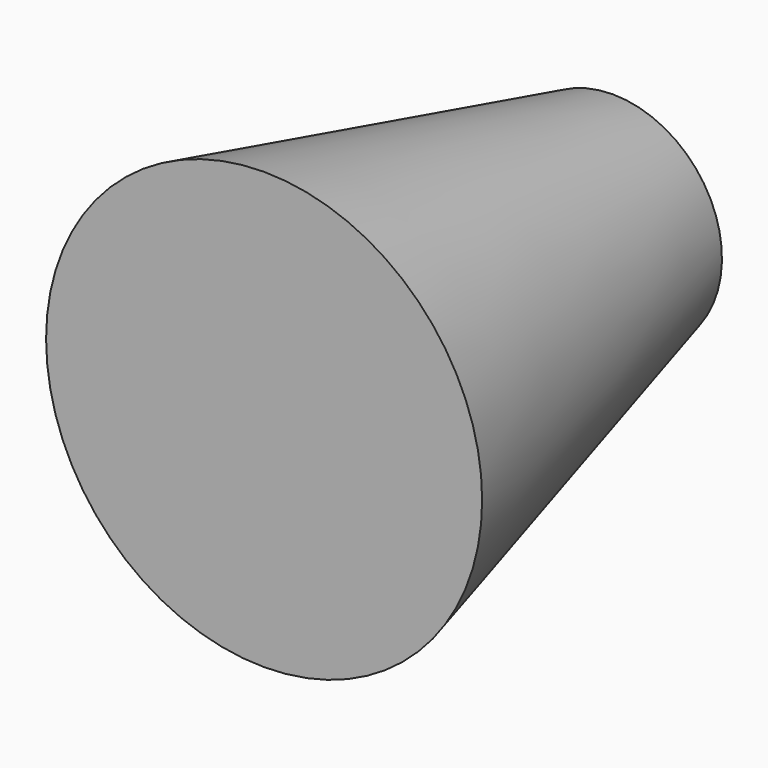
from build123d import *


with BuildPart() as f1:
    # F0 (on Right) → F1 (revolve)
    with BuildSketch(Plane.YZ):
        Polygon((0, 100), (0, 0), (200, 0), (200, 50), align=None)
    revolve(axis=Axis((0, 100, 0), (0, 1, 0)))


solid = f1.part
